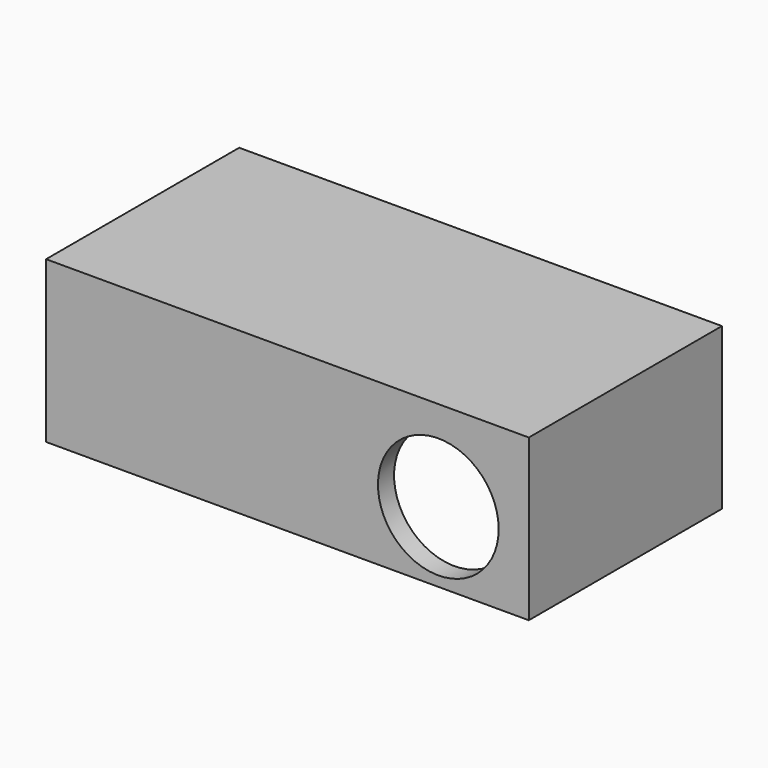
from build123d import *

# Parameters (mm, degrees)
F0_W     = 304.8
F0_H     = 101.6
F1_DEPTH = 76.2
F2_W     = 279.4
F2_H     = 127
F3_DEPTH = 88.9
F4_R     = 38.1
F5_DEPTH = 12.7


with BuildPart() as f1:
    # F0 (on Front) → F1 (new body, symmetric)
    with BuildSketch(Plane.XZ):
        Rectangle(F0_W, F0_H)
    extrude(amount=F1_DEPTH, both=True)

    # F2 (on face) → F3 (cut)
    with BuildSketch(Plane(origin=(0, 0, -50.8), x_dir=(1, 0, 0), z_dir=(0, 0, -1))):
        Rectangle(F2_W, F2_H)
    extrude(amount=-F3_DEPTH, mode=Mode.SUBTRACT)

    # F4 (on face) → F5 (cut)
    with BuildSketch(Plane.XZ.offset(76.2)):
        with Locations((95.25, -6.35)):
            Circle(F4_R)
    extrude(amount=-F5_DEPTH, mode=Mode.SUBTRACT)


solid = f1.part
